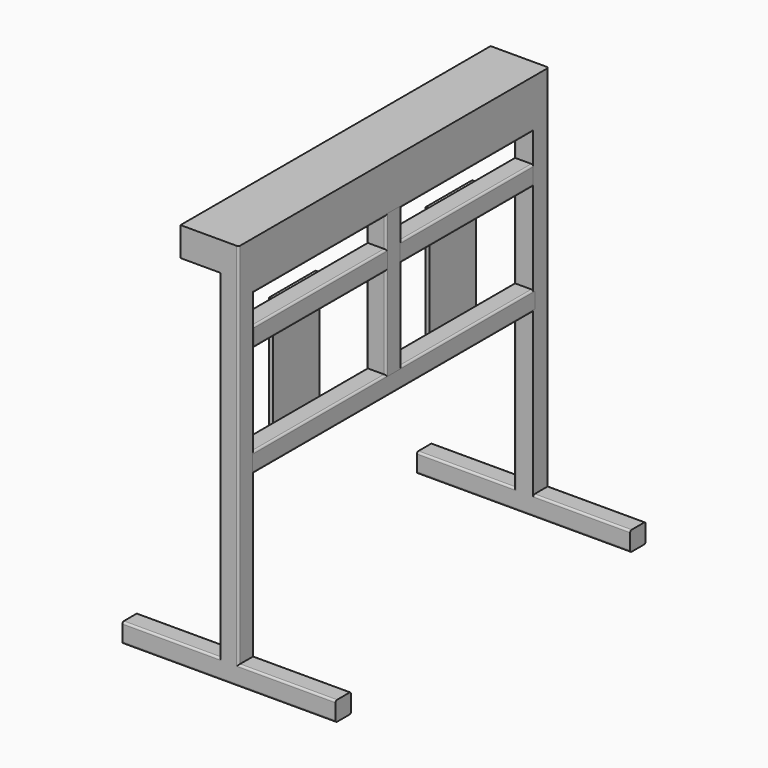
from build123d import *

# Parameters (mm, degrees)
F0_W      = 152.4
F0_H      = 1016
F1_DEPTH  = 76.2
F4_W      = 50.8
F4_H      = 914.4
F5_DEPTH  = 50.8
F6_R      = 5.08
F2_W      = 50.8
F2_H      = 50.8
F7_DEPTH  = 889
F3_W      = 50.8
F3_H      = 50.8
F8_DEPTH  = 889
F9_R      = 5.08
F10_W     = 924.56
F10_H     = 50.8
F11_DEPTH = 50.8
F12_R     = 5.08
F13_W     = 924.56
F13_H     = 50.8
F14_DEPTH = 50.8
F15_R     = 5.08
F16_W     = 50.8
F16_H     = 375.92
F17_DEPTH = 50.8
F18_R     = 5.08
F19_W     = 152.4
F19_H     = 40.64
F19_H_2   = 289.56
F20_DEPTH = 9.525
F21_W     = 152.4
F21_H     = 289.56
F21_H_2   = 40.64
F22_DEPTH = 9.525
F24_DEPTH = 50.8
F25_R     = 5.08
F27_DEPTH = 50.8
F28_R     = 5.08


with BuildPart() as f1:
    # F0 (on Top) → F1 (new body)
    with BuildSketch(Plane.XY):
        with Locations((76.2, 0)):
            Rectangle(F0_W, F0_H)
    extrude(amount=F1_DEPTH)

    # F4 (on face) → F5 (join)
    with BuildSketch(Plane(origin=(0, 0, 0), x_dir=(1, 0, 0), z_dir=(0, 0, -1))):
        with Locations((127, 0)):
            Rectangle(F4_W, F4_H)
    extrude(amount=F5_DEPTH)

    # F6
    f6_edges = [f1.edges().sort_by_distance(p)[0] for p in [
        (101.6, 0, -50.8),
        (152.4, 0, -50.8),
    ]]
    fillet(f6_edges, radius=F6_R)

    # F2 (on face) → F7 (join)
    with BuildSketch(Plane(origin=(0, 0, 0), x_dir=(1, 0, 0), z_dir=(0, 0, -1))):
        with Locations((127, 482.6)):
            Rectangle(F2_W, F2_H)
    extrude(amount=F7_DEPTH)

    # F3 (on face) → F8 (join)
    with BuildSketch(Plane(origin=(0, 0, 0), x_dir=(1, 0, 0), z_dir=(0, 0, -1))):
        with Locations((127, -482.6)):
            Rectangle(F3_W, F3_H)
    extrude(amount=F8_DEPTH)

    # F9
    f9_edges = [f1.edges().sort_by_distance(p)[0] for p in [
        (101.6, -457.2, -467.36),
        (152.4, -457.2, -467.36),
        (101.6, -508, -444.5),
        (152.4, -508, -406.4),
        (152.4, 508, -406.4),
        (101.6, 508, -444.5),
        (101.6, 457.2, -467.36),
    ]]
    fillet(f9_edges, radius=F9_R)

    # F23 (on face) → F24 (join)
    with BuildSketch(Plane(origin=(0, 0, -889), x_dir=(1, 0, 0), z_dir=(0, 0, -1))):
        with BuildLine():
            Line((406.4, 508), (147.32, 508))
            ThreePointArc((147.32, 508), (150.9121024484, 506.5121024484), (152.4, 502.92))
            Line((152.4, 502.92), (152.4, 462.28))
            ThreePointArc((152.4, 462.28), (150.9121024484, 458.6878975516), (147.32, 457.2))
            Line((147.32, 457.2), (406.4, 457.2))
            Line((406.4, 457.2), (406.4, 508))
        make_face()
        with BuildLine():
            Line((147.32, 508), (106.68, 508))
            ThreePointArc((106.68, 508), (103.0878975516, 506.5121024484), (101.6, 502.92))
            Line((101.6, 502.92), (101.6, 462.28))
            ThreePointArc((101.6, 462.28), (103.0878975516, 458.6878975516), (106.68, 457.2))
            Line((106.68, 457.2), (147.32, 457.2))
            ThreePointArc((147.32, 457.2), (150.9121024484, 458.6878975516), (152.4, 462.28))
            Line((152.4, 462.28), (152.4, 502.92))
            ThreePointArc((152.4, 502.92), (150.9121024484, 506.5121024484), (147.32, 508))
        make_face()
        with BuildLine():
            Line((106.68, 508), (-152.4, 508))
            Line((-152.4, 508), (-152.4, 457.2))
            Line((-152.4, 457.2), (106.68, 457.2))
            ThreePointArc((106.68, 457.2), (103.0878975516, 458.6878975516), (101.6, 462.28))
            Line((101.6, 462.28), (101.6, 502.92))
            ThreePointArc((101.6, 502.92), (103.0878975516, 506.5121024484), (106.68, 508))
        make_face()
    extrude(amount=F24_DEPTH)

    # F25
    f25_edges = [f1.edges().sort_by_distance(p)[0] for p in [
        (-22.86, -508, -889),
        (127, -508, -939.8),
        (276.86, -508, -889),
        (-22.86, -457.2, -889),
        (276.86, -457.2, -889),
        (127, -457.2, -939.8),
    ]]
    fillet(f25_edges, radius=F25_R)

    # F26 (on face) → F27 (join)
    with BuildSketch(Plane(origin=(0, 0, -889), x_dir=(1, 0, 0), z_dir=(0, 0, -1))):
        with BuildLine():
            Line((406.4, -457.2), (152.4, -457.2))
            Line((152.4, -457.2), (152.4, -502.92))
            ThreePointArc((152.4, -502.92), (150.9121024484, -506.5121024484), (147.32, -508))
            Line((147.32, -508), (406.4, -508))
            Line((406.4, -508), (406.4, -457.2))
        make_face()
        with BuildLine():
            Line((152.4, -457.2), (106.68, -457.2))
            ThreePointArc((106.68, -457.2), (103.0878975516, -458.6878975516), (101.6, -462.28))
            Line((101.6, -462.28), (101.6, -502.92))
            ThreePointArc((101.6, -502.92), (103.0878975516, -506.5121024484), (106.68, -508))
            Line((106.68, -508), (147.32, -508))
            ThreePointArc((147.32, -508), (150.9121024484, -506.5121024484), (152.4, -502.92))
            Line((152.4, -502.92), (152.4, -457.2))
        make_face()
        with BuildLine():
            Line((106.68, -457.2), (-152.4, -457.2))
            Line((-152.4, -457.2), (-152.4, -508))
            Line((-152.4, -508), (106.68, -508))
            ThreePointArc((106.68, -508), (103.0878975516, -506.5121024484), (101.6, -502.92))
            Line((101.6, -502.92), (101.6, -462.28))
            ThreePointArc((101.6, -462.28), (103.0878975516, -458.6878975516), (106.68, -457.2))
        make_face()
    extrude(amount=F27_DEPTH)

    # F28
    f28_edges = [f1.edges().sort_by_distance(p)[0] for p in [
        (127, 457.2, -939.8),
        (127, 508, -939.8),
        (-22.86, 457.2, -889),
        (279.4, 457.2, -889),
        (-22.86, 508, -889),
        (276.86, 508, -889),
    ]]
    fillet(f28_edges, radius=F28_R)


with BuildPart() as f11:
    # F10 (on face) → F11 (new body)
    with BuildSketch(Plane(origin=(101.6, 0, 0), x_dir=(0, -1, 0), z_dir=(-1, 0, 0))):
        with Locations((0, -152.4)):
            Rectangle(F10_W, F10_H)
    extrude(amount=-F11_DEPTH)

    # F12
    f12_edges = [f11.edges().sort_by_distance(p)[0] for p in [
        (101.6, 0, -127),
        (101.6, 0, -177.8),
        (152.4, 0, -127),
        (152.4, 462.28, -152.4),
        (152.4, 0, -177.8),
        (152.4, -462.28, -152.4),
    ]]
    fillet(f12_edges, radius=F12_R)


with BuildPart() as f14:
    # F13 (on face) → F14 (new body)
    with BuildSketch(Plane(origin=(101.6, 0, 0), x_dir=(0, -1, 0), z_dir=(-1, 0, 0))):
        with Locations((0, -441.96)):
            Rectangle(F13_W, F13_H)
    extrude(amount=-F14_DEPTH)

    # F15
    f15_edges = [f14.edges().sort_by_distance(p)[0] for p in [
        (101.6, 0, -416.56),
        (101.6, 0, -467.36),
        (152.4, 0, -467.36),
        (152.4, 0, -416.56),
    ]]
    fillet(f15_edges, radius=F15_R)


with BuildPart() as f17:
    # F16 (on face) → F17 (new body)
    with BuildSketch(Plane(origin=(101.6, 0, 0), x_dir=(0, -1, 0), z_dir=(-1, 0, 0))):
        with Locations((0, -233.68)):
            Rectangle(F16_W, F16_H)
    extrude(amount=-F17_DEPTH)

    # F18
    f18_edges = [f17.edges().sort_by_distance(p)[0] for p in [
        (101.6, -25.4, -233.68),
        (101.6, 25.4, -233.68),
        (152.4, -25.4, -233.68),
        (152.4, 25.4, -233.68),
    ]]
    fillet(f18_edges, radius=F18_R)


with BuildPart() as f20:
    # F19 (on face) → F20 (new body)
    with BuildSketch(Plane(origin=(101.6, 0, 0), x_dir=(0, -1, 0), z_dir=(-1, 0, 0))):
        with Locations((-256.54, -152.4)):
            Rectangle(F19_W, F19_H)
        with Locations((-256.54, -317.5)):
            Rectangle(F19_W, F19_H_2)
    extrude(amount=F20_DEPTH)


with BuildPart() as f22:
    # F21 (on face) → F22 (new body)
    with BuildSketch(Plane(origin=(101.6, 0, 0), x_dir=(0, -1, 0), z_dir=(-1, 0, 0))):
        with Locations((256.54, -317.5)):
            Rectangle(F21_W, F21_H)
        with Locations((256.54, -152.4)):
            Rectangle(F21_W, F21_H_2)
    extrude(amount=F22_DEPTH)


solid = Compound([f1.part, f11.part, f14.part, f17.part, f20.part, f22.part])
